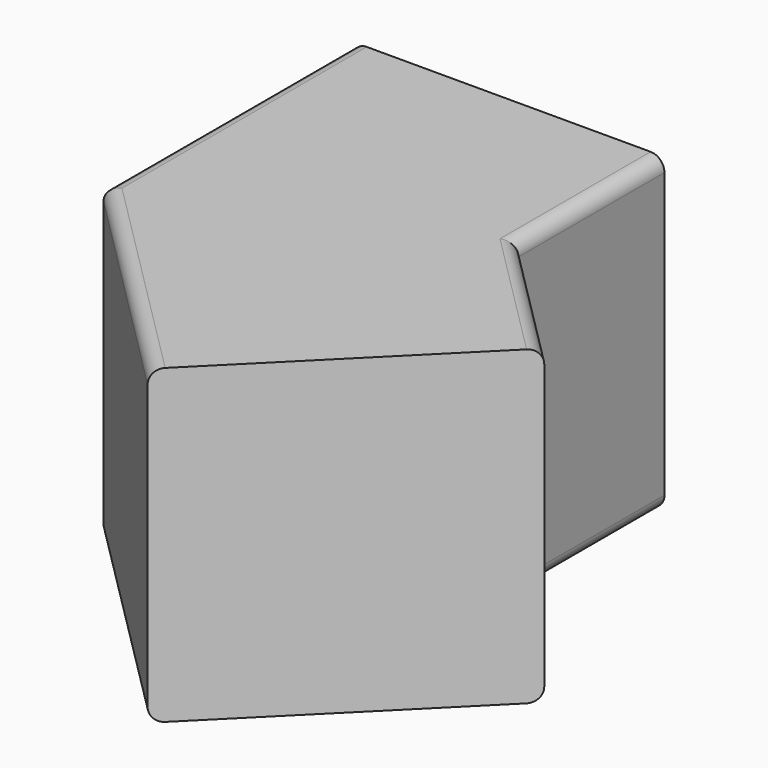
from build123d import *

# Parameters (mm, degrees)
F1_DEPTH = 45
F2_R     = 2


with BuildPart() as f1:
    # F0 (on Top) → F1 (new body)
    with BuildSketch(Plane.XY):
        Polygon((0, 45), (0, 0), (31.819805, -31.819805), (63.63961, 0), (45, 18.63961), (45, 45), align=None)
    extrude(amount=F1_DEPTH)

    # F2
    f2_edges = [f1.edges().sort_by_distance(p)[0] for p in [
        (54.319805, 9.319805, 0),
        (45, 31.819805, 0),
        (15.909903, -15.909903, 0),
        (0, 22.5, 0),
        (54.319805, 9.319805, 45),
        (45, 31.819805, 45),
        (0, 22.5, 45),
        (15.909903, -15.909903, 45),
    ]]
    fillet(f2_edges, radius=F2_R)


solid = f1.part
